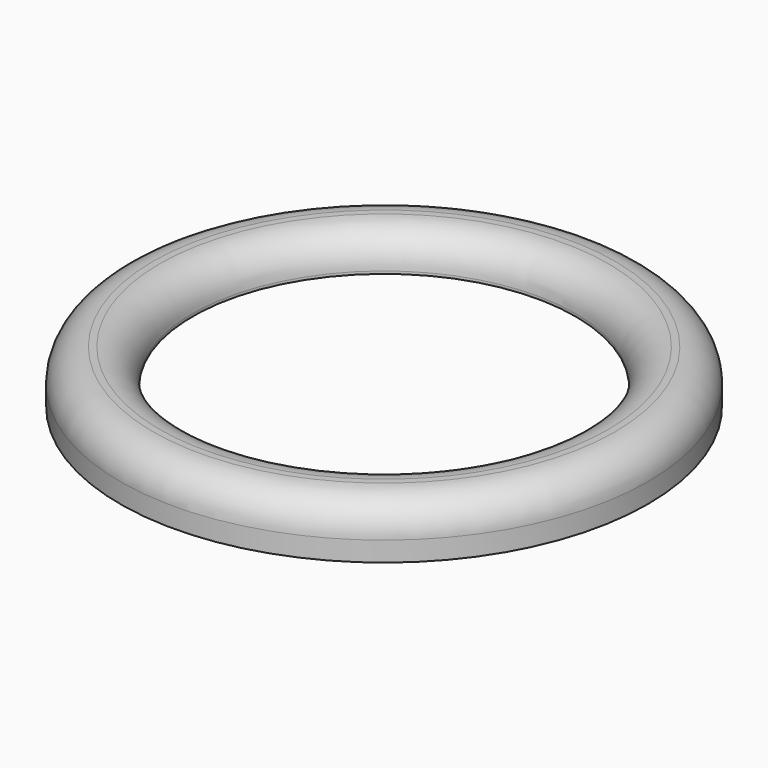
from build123d import *

# Parameters (mm, degrees)
F0_R     = 20
F0_R_2   = 14.5
F1_DEPTH = 4
F2_R     = 2.5
F3_R     = 17
F4_DEPTH = 1.3


with BuildPart() as f1:
    # F0 (on Top) → F1 (new body)
    with BuildSketch(Plane.XY):
        Circle(F0_R)
        Circle(F0_R_2, mode=Mode.SUBTRACT)
    extrude(amount=F1_DEPTH)

    # F2
    f2_edges = [f1.edges().sort_by_distance(p)[0] for p in [
        (-14.5, 0, 4),
        (-20, 0, 4),
    ]]
    fillet(f2_edges, radius=F2_R)

    # F3 (on Top) → F4 (cut)
    with BuildSketch(Plane.XY):
        Circle(F3_R)
    extrude(amount=F4_DEPTH, mode=Mode.SUBTRACT)


solid = f1.part
